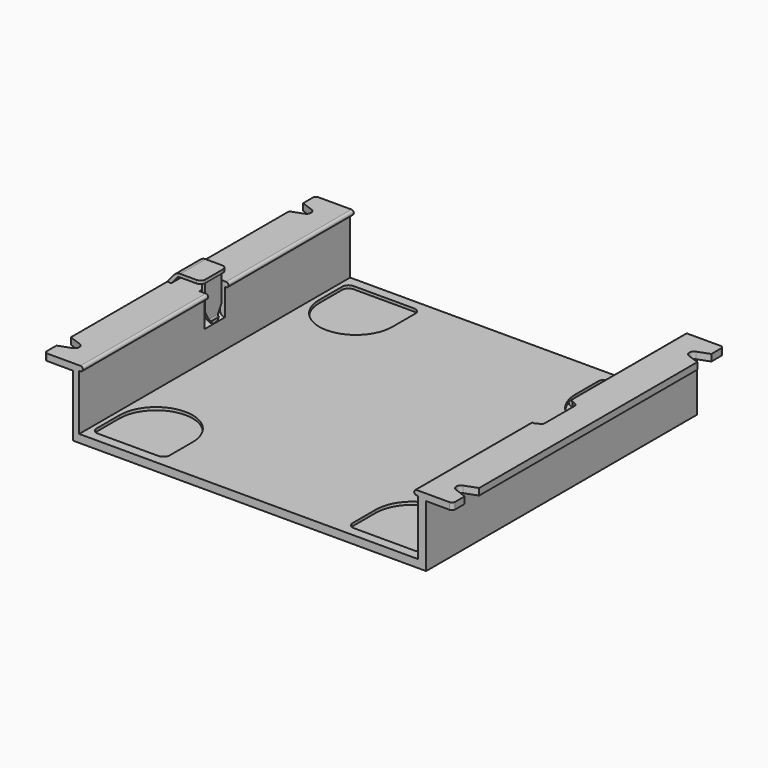
from build123d import *

# Parameters (mm, degrees)
PAD003_DEPTH         = 5
PAD_DEPTH            = 3.25
POCKET012_DEPTH      = 54.7
FILLET_R             = 1.5
PAD001_DEPTH         = 53.3
PAD002_DEPTH         = 53.3
POCKET_DEPTH         = 17.8
POCKET001_DEPTH      = 5
POCKET005_DEPTH      = 19.401
POCKET005_DEPTH_BACK = -2.101
POCKET011_DEPTH      = 4
FILLET001_R          = 1
FILLET002_R          = 1


with BuildPart() as body:
    # Sketch025 → Pad003 (new body, symmetric)
    with BuildSketch(Plane.XZ):
        with BuildLine():
            Line((-64.25, 2.1), (-62.062493, 4.706969))
            ThreePointArc((-60.147382, 5.6), (-61.203928, 5.365769), (-62.062493, 4.706969))
            Line((-60.147382, 5.6), (-53.45, 5.6))
            Line((-53.45, 5.6), (-53.45, 4.6))
            Line((-53.45, 4.6), (-53.7, 4.6))
            Line((-54.7, 4.6), (-53.7, 4.6))
            Line((-54.7, 4.6), (-60.263959, 4.6))
            ThreePointArc((-60.263959, 4.6), (-60.792232, 4.482885), (-61.221515, 4.153485))
            Line((-61.221515, 4.153485), (-62.944593, 2.1))
            Line((-64.25, 2.1), (-62.944593, 2.1))
        make_face()
    extrude(amount=PAD003_DEPTH, both=True)

    # Sketch028 → Pad (join, symmetric)
    with BuildSketch(Plane.XZ):
        with BuildLine():
            Line((-53.7, 3.1), (-53.7, -6.209252))
            ThreePointArc((-53.7, -6.209252), (-53.653109, -6.384252), (-53.525, -6.512361))
            Line((-53.2, -6.7), (-53.525, -6.512361))
            Line((-53.2, -7.7), (-53.2, -6.7))
            ThreePointArc((-54.7, -6.103128), (-54.26619, -7.198573), (-53.2, -7.7))
            Line((-54.7, 3.1), (-54.7, -6.103128))
            Line((-54.7, 3.1), (-54.7, 4.6))
            Line((-54.7, 4.6), (-53.7, 4.6))
            Line((-53.7, 3.1), (-53.7, 4.6))
        make_face()
    extrude(amount=PAD_DEPTH, both=True)

    # Sketch027 → Pocket012 (cut)
    with BuildSketch(Plane.YZ):
        Polygon((3.25, -3.7), (0.940599, -7.7), (3.25, -7.7), align=None)
    pocket012 = extrude(amount=-POCKET012_DEPTH, mode=Mode.SUBTRACT)

    # Mirrored001: Pocket012 across Sketch027 V_Axis
    add(pocket012.mirror(Plane(origin=(0, 0, 0), x_dir=(1, 0, 0), z_dir=(0, 1, 0))), mode=Mode.SUBTRACT)

    # Fillet
    fillet_edges = [body.edges().sort_by_distance(p)[0] for p in [
        (-53.45, -5, 5.1),
        (-53.45, 5, 5.1),
    ]]
    fillet(fillet_edges, radius=FILLET_R)


with BuildPart() as obj1:
    # Sketch001 → Pad001 (new body, symmetric)
    with BuildSketch(Plane.XZ):
        Polygon((64.25, 0), (55.9, 0), (55.9, -19.4), (-55.3, -19.4), (-55.3, 0), (-64.25, 0), (-64.25, 2.1), (-53.3, 2.1), (-53.3, -16.9), (0, -16.9), (53.3, -16.9), (53.3, 2.1), (64.25, 2.1), align=None)
    extrude(amount=PAD001_DEPTH, both=True)

    # Sketch002 → Pad002 (join, symmetric)
    with BuildSketch(Plane.XZ):
        with BuildLine():
            ThreePointArc((52.9, 2.1), (52.15, 1.35), (52.9, 0.6))
            Line((53.3, 0.6), (52.9, 0.6))
            Line((53.3, 2.1), (53.3, 0.6))
            Line((53.3, 2.1), (52.9, 2.1))
        make_face()
    pad002 = extrude(amount=PAD002_DEPTH, both=True)

    # Sketch003 → Pocket (cut)
    with BuildSketch(Plane.XY):
        with BuildLine():
            ThreePointArc((28.8, 39.3), (40.3, 27.8), (51.8, 39.3))
            Line((51.8, 39.3), (51.8, 48.3))
            ThreePointArc((51.8, 48.3), (51.214214, 49.714214), (49.8, 50.3))
            Line((30.8, 50.3), (49.8, 50.3))
            ThreePointArc((30.8, 50.3), (29.385786, 49.714214), (28.8, 48.3))
            Line((28.8, 39.3), (28.8, 48.3))
        make_face()
        with BuildLine():
            ThreePointArc((51.8, -39.3), (40.3, -27.8), (28.8, -39.3))
            Line((28.8, -39.3), (28.8, -48.3))
            ThreePointArc((28.8, -48.3), (29.385786, -49.714214), (30.8, -50.3))
            Line((30.8, -50.3), (49.8, -50.3))
            ThreePointArc((49.8, -50.3), (51.214214, -49.714214), (51.8, -48.3))
            Line((51.8, -39.3), (51.8, -48.3))
        make_face()
    pocket = extrude(amount=-POCKET_DEPTH, mode=Mode.SUBTRACT)

    # Sketch004 → Pocket001 (cut)
    with BuildSketch(Plane.XY):
        with BuildLine():
            ThreePointArc((59.35, -45.8), (59.603187, -46.603007), (60.271172, -47.11557))
            Line((60.271172, -47.11557), (64.25, -48.563745))
            Line((64.25, -42.886255), (64.25, -48.563745))
            Line((60.271172, -44.33443), (64.25, -42.886255))
            ThreePointArc((60.271172, -44.33443), (59.603187, -44.846993), (59.35, -45.65))
            Line((59.35, -45.65), (59.35, -45.8))
        make_face()
        with BuildLine():
            ThreePointArc((60.471172, 47.11557), (59.803187, 46.603007), (59.55, 45.8))
            Line((59.55, 45.8), (59.55, 45.65))
            ThreePointArc((59.55, 45.65), (59.803187, 44.846993), (60.471172, 44.33443))
            Line((60.471172, 44.33443), (64.25, 42.959049))
            Line((64.25, 48.490951), (64.25, 42.959049))
            Line((60.471172, 47.11557), (64.25, 48.490951))
        make_face()
    pocket001 = extrude(amount=POCKET001_DEPTH, mode=Mode.SUBTRACT)

    # Mirrored: Pad002, Pocket, Pocket001 across Sketch002 V_Axis
    add(pad002.mirror(Plane(origin=(0, 0, 0), x_dir=(0, -1, 0), z_dir=(1, 0, 0))))
    add(pocket.mirror(Plane(origin=(0, 0, 0), x_dir=(0, -1, 0), z_dir=(1, 0, 0))), mode=Mode.SUBTRACT)
    add(pocket001.mirror(Plane(origin=(0, 0, 0), x_dir=(0, -1, 0), z_dir=(1, 0, 0))), mode=Mode.SUBTRACT)

    # Sketch011 → Pocket005 (cut, two sides)
    with BuildSketch(Plane.XY) as pocket005_sk:
        Polygon((47.3, 7.5), (47.3, -7.5), (53.3, -7.5), (55.3, -6.5), (55.3, 6.5), (53.3, 7.5), align=None)
    extrude(amount=-POCKET005_DEPTH, mode=Mode.SUBTRACT)
    extrude(pocket005_sk.sketch, amount=-POCKET005_DEPTH_BACK, mode=Mode.SUBTRACT)

    # Sketch024 → Pocket011 (cut, symmetric)
    with BuildSketch(Plane.XZ):
        with BuildLine():
            Line((-54.9, 3), (-54.9, -6.248633))
            ThreePointArc((-54.9, -6.248633), (-54.463, -7.367173), (-53.383476, -7.893225))
            Line((-53.383476, -7.893225), (-53.3, -7.9))
            Line((-51.9, 3), (-53.3, -7.9))
            Line((-54.9, 3), (-51.9, 3))
        make_face()
    extrude(amount=POCKET011_DEPTH, both=True, mode=Mode.SUBTRACT)

    # Boolean: union Body
    add(body.part)

    # Fillet001
    fillet001_edges = [obj1.edges().sort_by_distance(p)[0] for p in [
        (-64.25, -53.3, 1.05),
        (64.25, -53.3, 1.05),
        (64.25, 53.3, 1.05),
        (-64.25, 53.3, 1.05),
    ]]
    fillet(fillet001_edges, radius=FILLET001_R)

    # Fillet002
    fillet002_edges = [obj1.edges().sort_by_distance(p)[0] for p in [
        (55.3, 6.5, -8.65),
        (55.3, -6.5, -8.65),
        (47.3, 7.5, -18.15),
        (47.3, -7.5, -18.15),
    ]]
    fillet(fillet002_edges, radius=FILLET002_R)


solid = obj1.part
